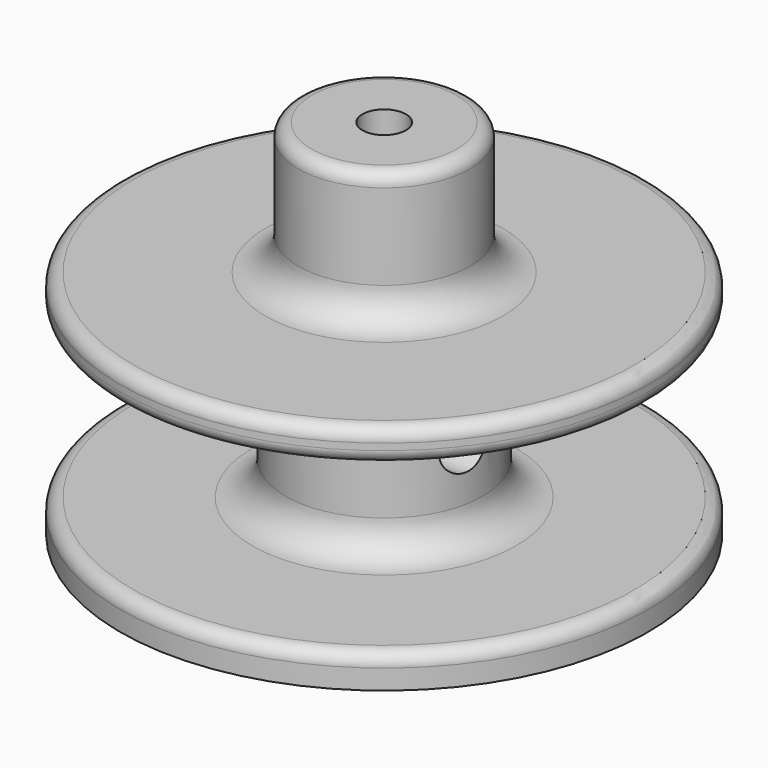
from build123d import *

# Parameters (mm, degrees)
F0_R      = 13
F5_DEPTH  = 20
F4_R      = 8.6
F6_DEPTH  = 23
F3_R      = 3.3
F8_DEPTH  = 8
F9_DEPTH  = 12
F10_R     = 2.05
F11_DEPTH = 50
F12_R     = 1.5
F13_DEPTH = 25
F15_R     = 3.5
F16_DEPTH = 5
F19_DEPTH = 3
F22_R     = 3.5
F23_DEPTH = 62.5
F24_R     = 5
F25_R     = 2


with BuildPart() as f5:
    # F0 (on Top) → F5 (new body, symmetric)
    with BuildSketch(Plane.XY):
        Circle(F0_R)
    extrude(amount=F5_DEPTH, both=True)

    # F4 (on offset) → F6 (cut)
    with BuildSketch(Plane.XY.offset(-20)):
        Circle(F4_R)
    extrude(amount=F6_DEPTH, mode=Mode.SUBTRACT)

    # F3 (on offset) → F8 (cut)
    with BuildSketch(Plane.XY.offset(20)):
        with Locations((0.0063437128, 0)):
            Circle(F3_R)
    extrude(amount=-F8_DEPTH, mode=Mode.SUBTRACT)

    # F7 (on Top) → F9 (cut)
    with BuildSketch(Plane.XY):
        with BuildLine():
            Line((1.888, 2.9471097706), (0, 2.9471097706))
            Line((0, 2.9471097706), (-1.888, 2.9471097706))
            ThreePointArc((-1.888, 2.9471097706), (0, -3.5), (1.888, 2.9471097706))
        make_face()
    extrude(amount=F9_DEPTH, mode=Mode.SUBTRACT)

    # F10 (on Right) → F11 (cut, symmetric)
    with BuildSketch(Plane.YZ):
        with Locations((-2.5, -12.5)):
            Circle(F10_R)
    extrude(amount=F11_DEPTH, both=True, mode=Mode.SUBTRACT)

    # F12 (on Front) → F13 (cut)
    with BuildSketch(Plane.XZ):
        with Locations((0, 7)):
            Circle(F12_R)
    extrude(amount=-F13_DEPTH, mode=Mode.SUBTRACT)

    # F15 (on offset) → F16 (cut)
    with BuildSketch(Plane.YZ.offset(11)):
        with Locations((-2.5, -12.5)):
            Circle(F15_R)
    extrude(amount=F16_DEPTH, mode=Mode.SUBTRACT)

    # F18 (on offset) → F19 (cut)
    with BuildSketch(Plane.YZ.offset(-12)):
        Polygon((-5.9460342998, -10.8984858401), (-5.6099690969, -14.683596166), (-2.1639347971, -16.2851103259), (0.9460342998, -14.1015141599), (0.6099690969, -10.316403834), (-2.8360652029, -8.7148896741), align=None)
    extrude(amount=-F19_DEPTH, mode=Mode.SUBTRACT)

    # F20 (on Right) → F21 (revolve)
    with BuildSketch(Plane.YZ):
        Polygon((0, 0), (0, -35), (40, -35), (40, -30), (15, -30), (15, -5), (40, -5), (40, 0), align=None)
    revolve(axis=Axis((0, 0, -17.5), (0, 0, -1)))

    # F22 (on Right) → F23 (cut, symmetric)
    with BuildSketch(Plane.YZ):
        with Locations((-3, -17.2325540334)):
            Circle(F22_R)
    extrude(amount=F23_DEPTH, both=True, mode=Mode.SUBTRACT)

    # F24
    f24_edges = [f5.edges().sort_by_distance(p)[0] for p in [
        (0, -15, -5),
        (0, -15, -30),
        (-13, 0, 0),
    ]]
    fillet(f24_edges, radius=F24_R)

    # F25
    f25_edges = [f5.edges().sort_by_distance(p)[0] for p in [
        (0, -40, 0),
        (0, -40, -5),
        (0, -40, -30),
        (-13, 0, 20),
    ]]
    fillet(f25_edges, radius=F25_R)


solid = f5.part
